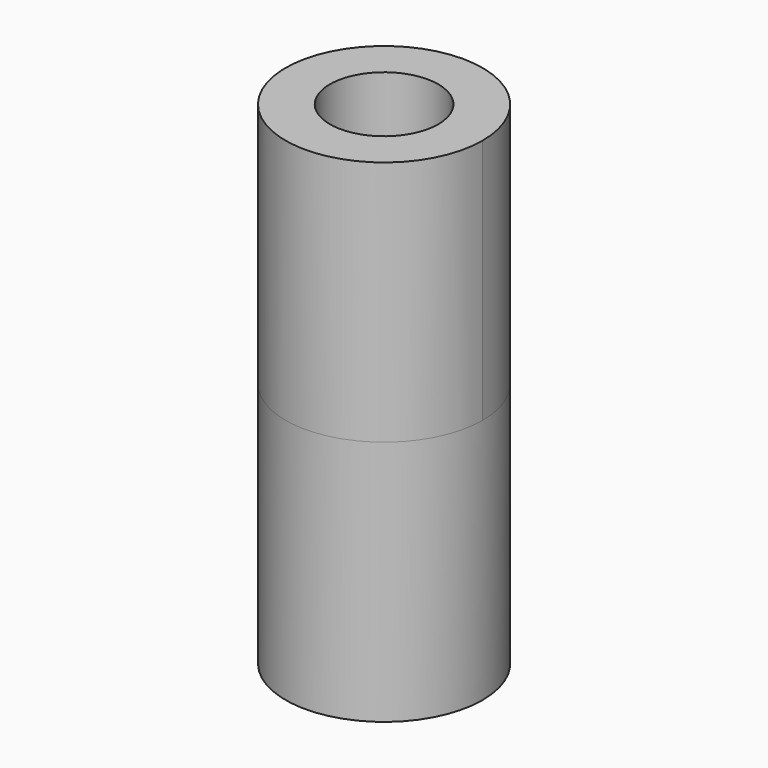
from build123d import *

# Parameters (mm, degrees)
F0_R        = 1.1
F1_DEPTH    = 5
F1_FACE_R   = 2
F1_FACE_R_2 = 1.1
F2_DEPTH    = 5


with BuildPart() as f1:
    # F0 (on Top) → F1 (new body)
    with BuildSketch(Plane.XY):
        with BuildLine():
            ThreePointArc((0, 2), (-1.414214, -1.414214), (2, 0))
            ThreePointArc((2, 0), (1.414214, 1.414214), (0, 2))
        make_face()
        Circle(F0_R, mode=Mode.SUBTRACT)
    extrude(amount=F1_DEPTH)

    # F1_face (on face) → F2 (join)
    with BuildSketch(Plane(origin=(0, 0, 0), x_dir=(1, 0, 0), z_dir=(0, 0, -1))):
        Circle(F1_FACE_R)
        Circle(F1_FACE_R_2, mode=Mode.SUBTRACT)
    extrude(amount=F2_DEPTH)


solid = f1.part
